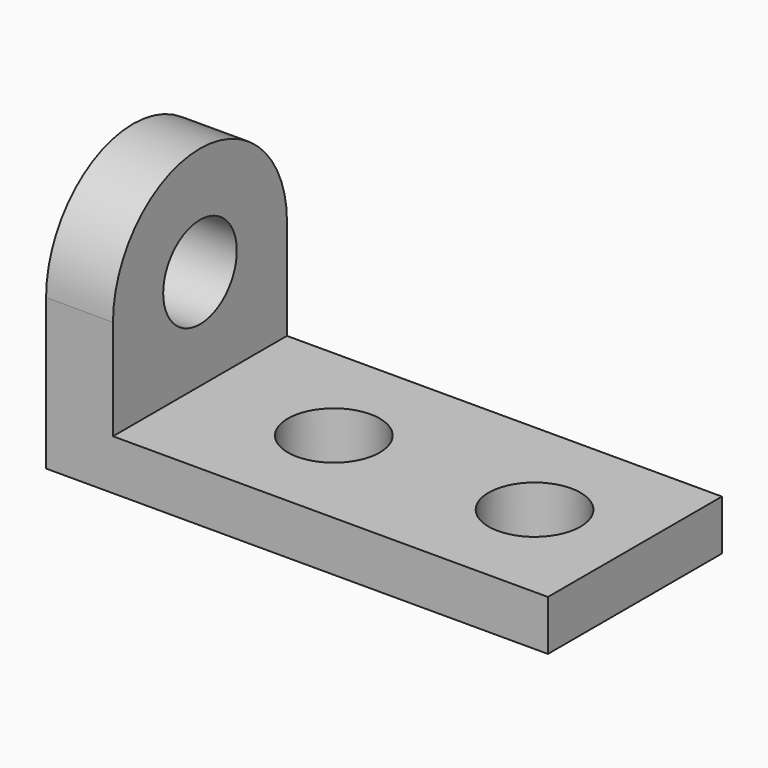
from build123d import *

# Parameters (mm, degrees)
F0_W     = 165.1
F0_H     = 82.55
F0_R     = 17.4625
F0_W_2   = 25.4
F1_DEPTH = 19.05
F2_DEPTH = 57.15
F4_DEPTH = 25.4
F3_R     = 17.4625
F5_DEPTH = 25.4


with BuildPart() as f1:
    # F0 (on Top) → F1 (new body)
    with BuildSketch(Plane.XY):
        with Locations((12.7, 0)):
            Rectangle(F0_W, F0_H)
        with Locations((-19.05, 0)):
            Circle(F0_R, mode=Mode.SUBTRACT)
        with Locations((57.15, 0)):
            Circle(F0_R, mode=Mode.SUBTRACT)
        with Locations((-82.55, 0)):
            Rectangle(F0_W_2, F0_H)
    extrude(amount=F1_DEPTH)

    # F0 (on Top) → F2 (join)
    with BuildSketch(Plane.XY):
        with Locations((-82.55, 0)):
            Rectangle(F0_W_2, F0_H)
    extrude(amount=F2_DEPTH)

    # F3 (on face) → F4 (join)
    with BuildSketch(Plane.YZ.offset(-69.85)):
        with BuildLine():
            ThreePointArc((-17.4625, 57.15), (0, 74.6125), (17.4625, 57.15))
            Line((17.4625, 57.15), (41.275, 57.15))
            ThreePointArc((41.275, 57.15), (0, 98.425), (-41.275, 57.15))
            Line((-41.275, 57.15), (-17.4625, 57.15))
        make_face()
    extrude(amount=-F4_DEPTH)

    # F3 (on face) → F5 (cut)
    with BuildSketch(Plane.YZ.offset(-69.85)):
        with Locations((0, 57.15)):
            Circle(F3_R)
    extrude(amount=-F5_DEPTH, mode=Mode.SUBTRACT)


solid = f1.part
